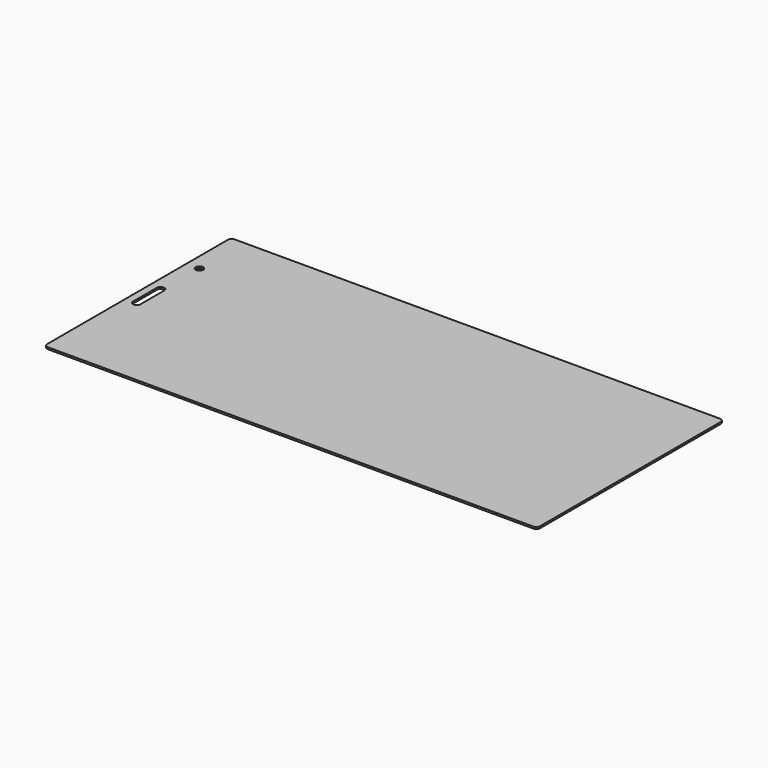
from build123d import *

# Parameters (mm, degrees)
CYLINDER010_R     = 1
CYLINDER010_DEPTH = 10
BOX016_W          = 2
BOX016_H          = 10
BOX016_DEPTH      = 10
FILLET008_R       = 0.95
BOX004_W          = 133
BOX004_H          = 63
BOX004_DEPTH      = 0.5
FILLET005_R       = 1


with BuildPart() as cilindro010:
    # Cylinder010 → Cylinder010 (new body)
    with BuildSketch(Plane(origin=(5.5, 50, 0), x_dir=(1, 0, 0), z_dir=(0, 0, 1))):
        Circle(CYLINDER010_R)
    extrude(amount=CYLINDER010_DEPTH)


with BuildPart() as fillet008:
    # Box016 → Box016 (new body)
    with BuildSketch(Plane(origin=(4, 28.5, 0), x_dir=(1, 0, 0), z_dir=(0, 0, 1))):
        with Locations((1, 5)):
            Rectangle(BOX016_W, BOX016_H)
    extrude(amount=BOX016_DEPTH)

    # Fillet008
    fillet008_edges = [fillet008.edges().sort_by_distance(p)[0] for p in [
        (4, 28.5, 5),
        (4, 38.5, 5),
        (6, 28.5, 5),
        (6, 38.5, 5),
    ]]
    fillet(fillet008_edges, radius=FILLET008_R)


with BuildPart() as cut016:
    # Box004 → Box004 (new body)
    with BuildSketch(Plane(origin=(2, 2, 5.5), x_dir=(1, 0, 0), z_dir=(0, 0, 1))):
        with Locations((66.5, 31.5)):
            Rectangle(BOX004_W, BOX004_H)
    extrude(amount=BOX004_DEPTH)

    # Fillet005
    fillet005_edges = [cut016.edges().sort_by_distance(p)[0] for p in [
        (2, 2, 5.75),
        (2, 65, 5.75),
        (135, 2, 5.75),
        (135, 65, 5.75),
    ]]
    fillet(fillet005_edges, radius=FILLET005_R)


with BuildPart() as cut016_1:
    # Fillet005 placement: moved
    add(cut016.part.moved(Location((0, 0, 1.5))))

    # Cut014: cut Fillet008
    add(fillet008.part, mode=Mode.SUBTRACT)

    # Cut016: cut Cilindro010
    add(cilindro010.part, mode=Mode.SUBTRACT)


solid = cut016_1.part
